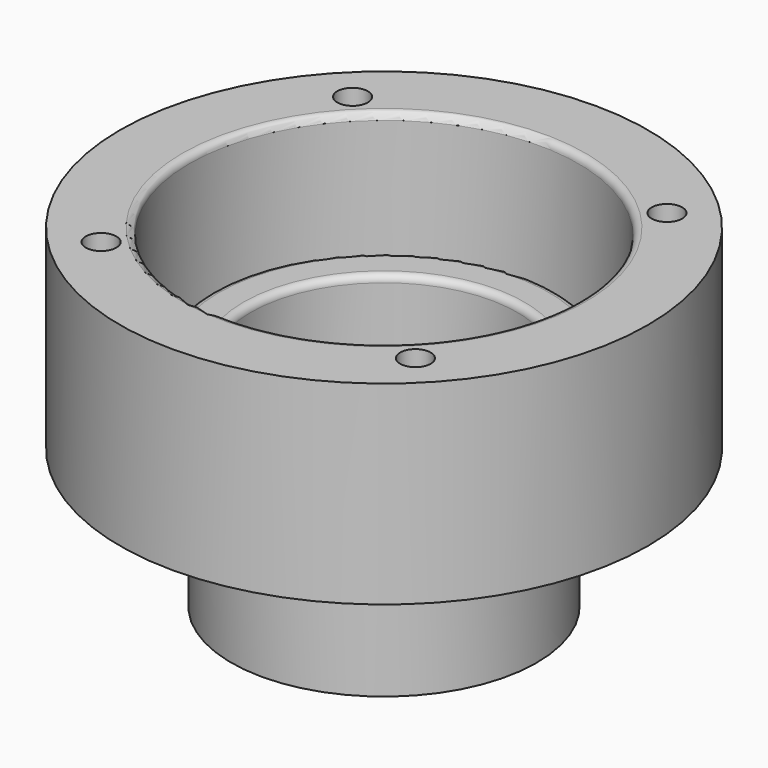
from build123d import *

# Parameters (mm, degrees)
F2_R     = 1.1
F3_DEPTH = 14
F5_DEPTH = 1


with BuildPart() as f1:
    # F0 (on Front) → F1 (revolve)
    with BuildSketch(Plane.XZ):
        with BuildLine():
            Line((-14, 0), (-14, 9.5))
            ThreePointArc((-14, 9.5), (-14.146447, 9.853553), (-14.5, 10))
            Line((-14.5, 10), (-19, 10))
            Line((-19, 10), (-19, -4))
            Line((-19, -4), (-11, -4))
            Line((-11, -4), (-11, -14))
            Line((-11, -14), (-4, -14))
            Line((-4, -14), (-4, -8.1))
            Line((-4, -8.1), (-9.6, -2.5))
            Line((-9.6, -2.5), (-9.6, 1.5))
            ThreePointArc((-9.6, 1.5), (-9.746447, 1.853553), (-10.1, 2))
            Line((-10.1, 2), (-11.9, 2))
            ThreePointArc((-11.9, 2), (-12.253553, 1.853553), (-12.4, 1.5))
            Line((-12.4, 1.5), (-12.4, 0))
            Line((-12.4, 0), (-14, 0))
        make_face()
    revolve(axis=Axis((0, 0, -7), (0, 0, -1)))

    # F2 (on face) → F3 (cut, through all)
    with BuildSketch(Plane(origin=(0, 0, -4), x_dir=(1, 0, 0), z_dir=(0, 0, -1))):
        with Locations((11.313708, 11.313708)):
            Circle(F2_R)
        with Locations((-11.313708, -11.313708)):
            Circle(F2_R)
        with Locations((11.313708, -11.313708)):
            Circle(F2_R)
        with Locations((-11.313708, 11.313708)):
            Circle(F2_R)
    extrude(amount=-F3_DEPTH, mode=Mode.SUBTRACT)

    # F4 (on face) → F5 (cut)
    with BuildSketch(Plane(origin=(0, 0, -14), x_dir=(1, 0, 0), z_dir=(0, 0, -1))):
        with BuildLine():
            Line((4.332, 5.01), (-4.332, 5.01))
            ThreePointArc((-4.332, 5.01), (-5.230026, 4.638026), (-5.602, 3.74))
            Line((-5.602, 3.74), (-5.602, -5.72))
            ThreePointArc((-5.602, -5.72), (-5.230026, -6.618026), (-4.332, -6.99))
            Line((-4.332, -6.99), (-1.5, -6.99))
            Line((-1.5, -6.99), (-1.5, -11.99))
            ThreePointArc((-1.5, -11.99), (0, -13.49), (1.5, -11.99))
            Line((1.5, -11.99), (1.5, -6.99))
            Line((1.5, -6.99), (4.332, -6.99))
            ThreePointArc((4.332, -6.99), (5.230026, -6.618026), (5.602, -5.72))
            Line((5.602, -5.72), (5.602, 3.74))
            ThreePointArc((5.602, 3.74), (5.230026, 4.638026), (4.332, 5.01))
        make_face()
    extrude(amount=-F5_DEPTH, mode=Mode.SUBTRACT)


solid = f1.part
